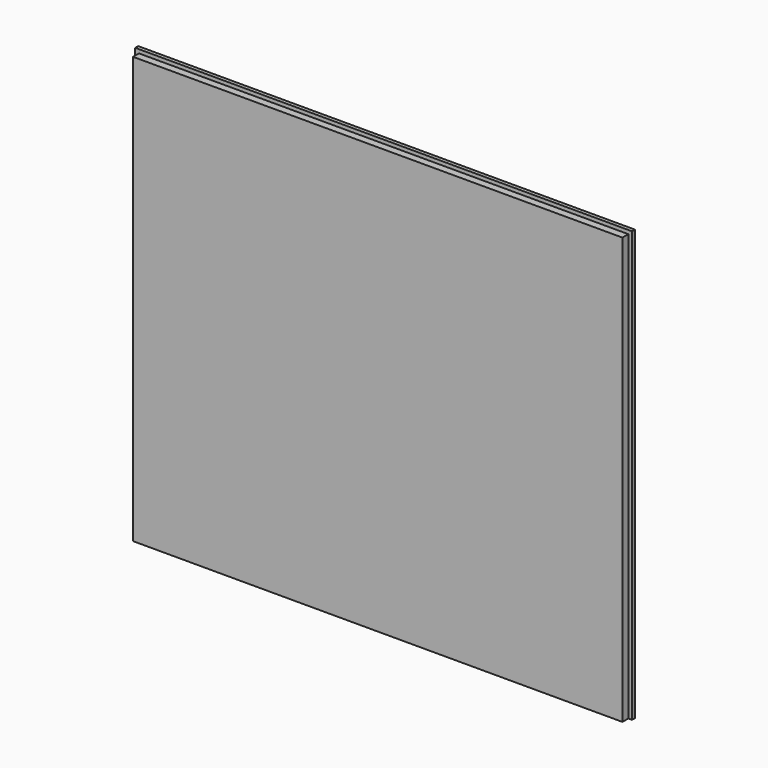
from build123d import *

# Parameters (mm, degrees)
F0_W     = 850.9
F0_H     = 736.6
F1_DEPTH = 19.05
F2_W     = 6.35
F2_H     = 12.7
F4_DEPTH = 736.601
F3_W     = 12.7
F3_H     = 6.35
F5_DEPTH = 850.901


with BuildPart() as f1:
    # F0 (on Front) → F1 (new body)
    with BuildSketch(Plane.XZ):
        with Locations((425.45, 368.3)):
            Rectangle(F0_W, F0_H)
    extrude(amount=F1_DEPTH)

    # F2 (on face) → F4 (cut, through all)
    with BuildSketch(Plane(origin=(0, 0, 0), x_dir=(1, 0, 0), z_dir=(0, 0, -1))):
        with Locations((847.725, 12.7)):
            Rectangle(F2_W, F2_H)
        with Locations((3.175, 12.7)):
            Rectangle(F2_W, F2_H)
    extrude(amount=-F4_DEPTH, mode=Mode.SUBTRACT)

    # F3 (on face) → F5 (cut, through all)
    with BuildSketch(Plane.YZ.offset(850.9)):
        with Locations((-12.7, 733.425)):
            Rectangle(F3_W, F3_H)
    extrude(amount=-F5_DEPTH, mode=Mode.SUBTRACT)


solid = f1.part
